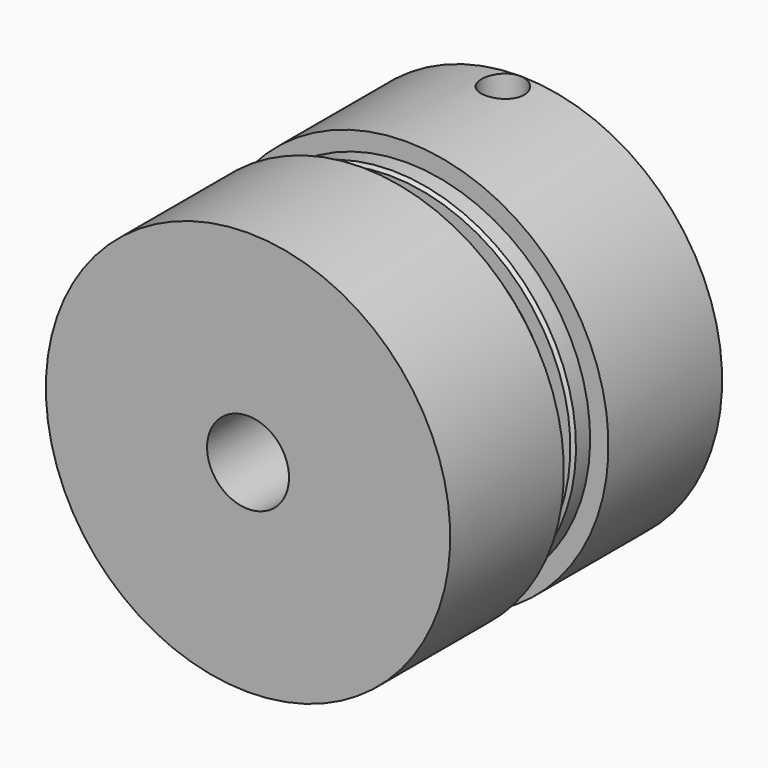
from build123d import *

# Parameters (mm, degrees)
F2_SIZE        = 0.762
F3_R           = 0.254
F6_D           = 5.1054
F6_DEPTH       = 49.3522
F6_START       = 0.2754562
F6_CBORE_D     = 10.414
F6_CBORE_DEPTH = 33.4772
F6_TIP         = 1.5338169022


with BuildPart() as f1:
    # F0 (on Right) → F1 (revolve)
    with BuildSketch(Plane.YZ):
        Polygon((-41.4782, 10.0076), (0, 10.0076), (41.4782, 10.0076), (41.4782, 49.3522), (6.7945, 49.3522), (6.7945, 44.8818), (1.7145, 44.8818), (1.7145, 32.1818), (-1.7145, 32.1818), (-1.7145, 44.8818), (-6.7945, 44.8818), (-6.7945, 49.3522), (-41.4782, 49.3522), align=None)
    revolve(axis=Axis((0, -0.9843776588, 0), (0, 1, 0)))

    # F2
    f2_edges = [f1.edges().sort_by_distance(p)[0] for p in [
        (0, 1.7145, -44.8818),
        (0, -1.7145, -44.8818),
    ]]
    chamfer(f2_edges, length=F2_SIZE)

    # F3
    f3_edges = [f1.edges().sort_by_distance(p)[0] for p in [
        (0, -1.7145, -32.1818),
        (0, 1.7145, -32.1818),
    ]]
    fillet(f3_edges, radius=F3_R)

    # F6
    # its depths count from where the whole tool has entered the part; down to there all is cleared
    with Locations(Plane.XY.offset(49.3522).offset(-F6_START)):
        with Locations((0, 36.2458)):
            CounterBoreHole(F6_D / 2, F6_CBORE_D / 2, F6_CBORE_DEPTH, depth=F6_DEPTH)
            with Locations((0, 0, -(F6_DEPTH + F6_TIP / 2))):  # 118° drill point
                Cone(0, F6_D / 2, F6_TIP, mode=Mode.SUBTRACT)


solid = f1.part
